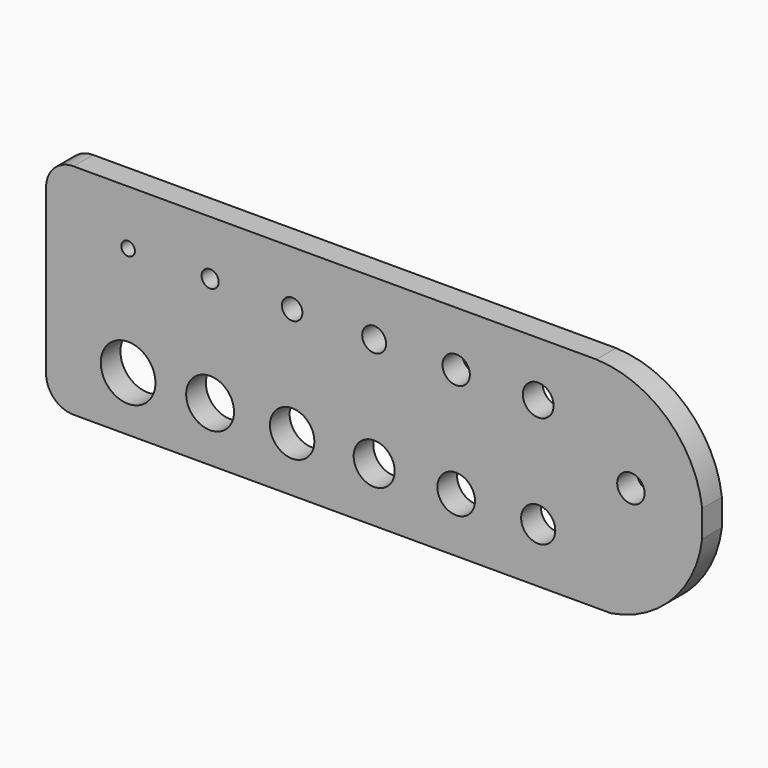
from build123d import *

# Parameters (mm, degrees)
F0_R     = 6.35
F0_R_2   = 5.55625
F0_R_3   = 5.159375
F0_R_4   = 4.7625
F0_R_5   = 4.365625
F0_R_6   = 3.96875
F0_R_7   = 1.5875
F0_R_8   = 1.984375
F0_R_9   = 2.38125
F0_R_10  = 2.778125
F0_R_11  = 3.175
F0_R_12  = 3.571875
F1_DEPTH = 5.715


with BuildPart() as f1:
    # F0 (on Front) → F1 (new body)
    with BuildSketch(Plane.XZ):
        with BuildLine():
            ThreePointArc((0, 6.35), (1.859872, 1.859872), (6.35, 0))
            Line((6.35, 0), (131.205052, 0))
            ThreePointArc((131.205052, 0), (145.478762, 7.533993), (152.4, 22.114675))
            Line((152.4, 22.114675), (152.4, 28.35161))
            ThreePointArc((152.4, 28.35161), (144.256273, 44.125397), (127.806887, 50.8))
            Line((127.806887, 50.8), (6.35, 50.8))
            ThreePointArc((6.35, 50.8), (1.859872, 48.940128), (0, 44.45))
            Line((0, 44.45), (0, 6.35))
        make_face()
        with Locations((19.05, 12.7)):
            Circle(F0_R, mode=Mode.SUBTRACT)
        with Locations((38.1, 12.7)):
            Circle(F0_R_2, mode=Mode.SUBTRACT)
        with Locations((57.15, 12.7)):
            Circle(F0_R_3, mode=Mode.SUBTRACT)
        with Locations((76.2, 12.7)):
            Circle(F0_R_4, mode=Mode.SUBTRACT)
        with Locations((95.25, 12.7)):
            Circle(F0_R_5, mode=Mode.SUBTRACT)
        with Locations((114.3, 12.7)):
            Circle(F0_R_6, mode=Mode.SUBTRACT)
        with Locations((19.05, 38.1)):
            Circle(F0_R_7, mode=Mode.SUBTRACT)
        with Locations((38.1, 38.1)):
            Circle(F0_R_8, mode=Mode.SUBTRACT)
        with Locations((57.15, 38.1)):
            Circle(F0_R_9, mode=Mode.SUBTRACT)
        with Locations((76.2, 38.1)):
            Circle(F0_R_10, mode=Mode.SUBTRACT)
        with Locations((135.828465, 27.072145)):
            Circle(F0_R_11, mode=Mode.SUBTRACT)
        with Locations((95.25, 38.1)):
            Circle(F0_R_11, mode=Mode.SUBTRACT)
        with Locations((114.3, 38.1)):
            Circle(F0_R_12, mode=Mode.SUBTRACT)
    extrude(amount=F1_DEPTH)


solid = f1.part
